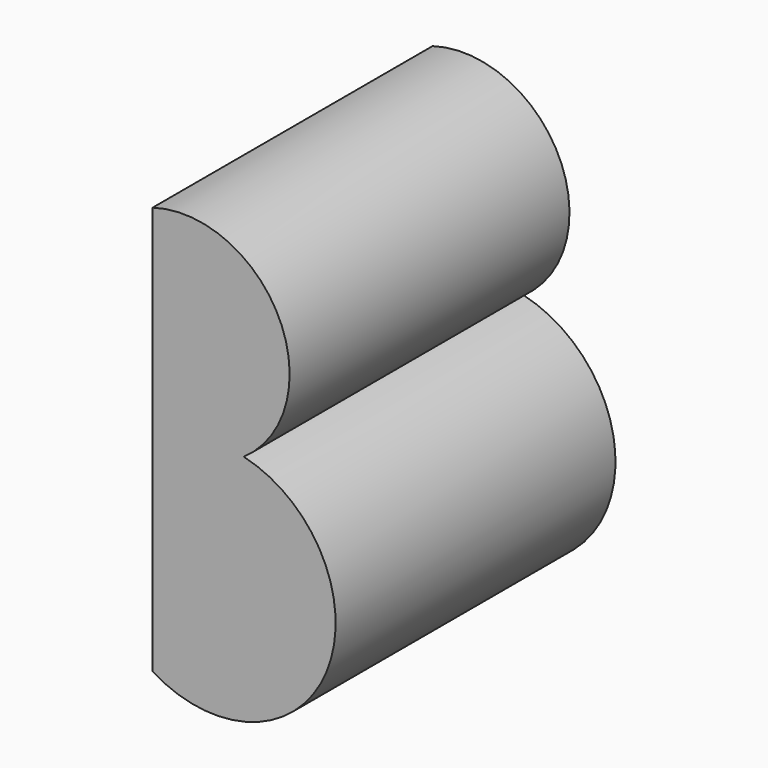
from build123d import *

# Parameters (mm, degrees)
F1_DEPTH = 25.4
F2_DEPTH = 25.4


with BuildPart() as f1:
    # F0 (on Front) → F1 (new body)
    with BuildSketch(Plane.XZ):
        with BuildLine():
            ThreePointArc((-61.3643803509, 45.5360539264), (-58.7974380506, 55.244462265), (-67.9805278778, 59.3081116676))
            Line((-67.9805278778, 59.3081116676), (-67.9805278778, 44.4810837507))
            ThreePointArc((-67.9805278778, 44.4810837507), (-64.7779312404, 45.6700588436), (-61.3643803509, 45.5360539264))
        make_face()
        with BuildLine():
            ThreePointArc((-61.3643803509, 45.5360539264), (-64.5523229201, 44.2551772055), (-67.9805278778, 44.4810837507))
            Line((-67.9805278778, 44.4810837507), (-67.9805278778, 29.6540558338))
            ThreePointArc((-67.9805278778, 29.6540558338), (-55.3649138283, 33.7177052364), (-61.3643803509, 45.5360539264))
        make_face()
        with BuildLine():
            ThreePointArc((-61.3643803509, 45.5360539264), (-64.7779312404, 45.6700588436), (-67.9805278778, 44.4810837507))
            ThreePointArc((-67.9805278778, 44.4810837507), (-64.5523229201, 44.2551772055), (-61.3643803509, 45.5360539264))
        make_face()
    extrude(amount=F1_DEPTH)

    # F0 (on Front) → F2 (join)
    with BuildSketch(Plane.XZ):
        with BuildLine():
            ThreePointArc((-61.3643803509, 45.5360539264), (-58.7974380506, 55.244462265), (-67.9805278778, 59.3081116676))
            Line((-67.9805278778, 59.3081116676), (-67.9805278778, 44.4810837507))
            ThreePointArc((-67.9805278778, 44.4810837507), (-64.7779312404, 45.6700588436), (-61.3643803509, 45.5360539264))
        make_face()
        with BuildLine():
            ThreePointArc((-61.3643803509, 45.5360539264), (-64.5523229201, 44.2551772055), (-67.9805278778, 44.4810837507))
            Line((-67.9805278778, 44.4810837507), (-67.9805278778, 29.6540558338))
            ThreePointArc((-67.9805278778, 29.6540558338), (-55.3649138283, 33.7177052364), (-61.3643803509, 45.5360539264))
        make_face()
        with BuildLine():
            ThreePointArc((-61.3643803509, 45.5360539264), (-64.7779312404, 45.6700588436), (-67.9805278778, 44.4810837507))
            ThreePointArc((-67.9805278778, 44.4810837507), (-64.5523229201, 44.2551772055), (-61.3643803509, 45.5360539264))
        make_face()
    extrude(amount=F2_DEPTH)


solid = f1.part
